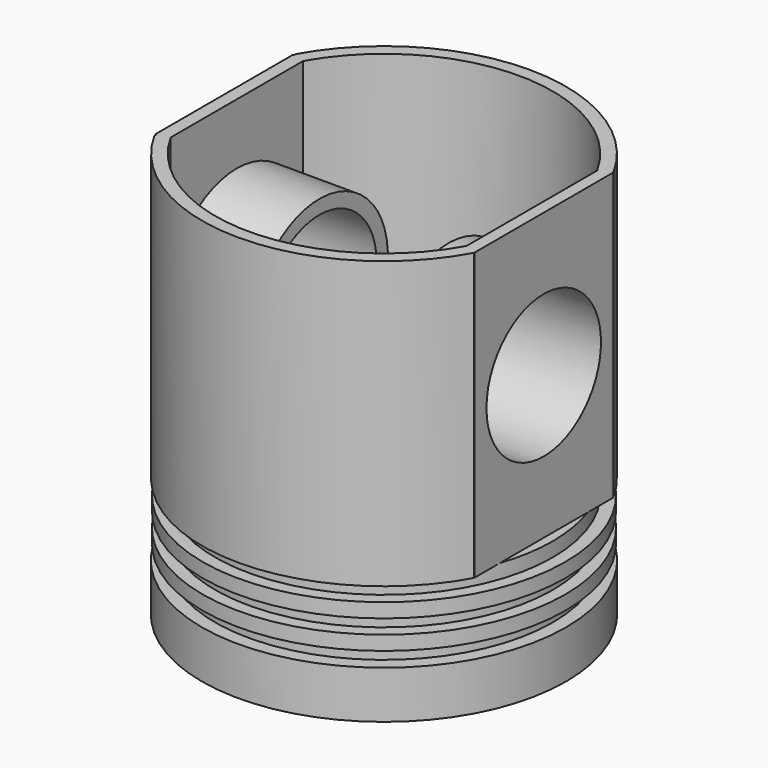
from build123d import *

# Parameters (mm, degrees)
F0_R      = 48.4220762832
F1_DEPTH  = 76.2
F2_R      = 44.958
F3_DEPTH  = 71.12
F4_R      = 44.958
F5_DEPTH  = 3.81
F6_R      = 48.26
F7_DEPTH  = 3.81
F8_R      = 44.958
F9_DEPTH  = 3.81
F10_R     = 48.26
F11_DEPTH = 3.81
F12_R     = 44.958
F13_DEPTH = 3.81
F14_R     = 48.4881238819
F15_DEPTH = 12.7
F16_R     = 44.958
F16_R_2   = 39.5280108498
F17_DEPTH = 17.78
F18_W     = 24.8659998178
F18_H     = 81.0338929296
F19_DEPTH = 76.201
F20_W     = 28.6690369248
F20_H     = 83.0816850066
F21_DEPTH = 76.201
F22_W     = 3.4077020206
F22_H     = 45.72
F23_DEPTH = 76.2
F24_W     = 3.1630169219
F24_H     = 45.72
F25_DEPTH = 76.2
F26_R     = 22.7868641695
F27_DEPTH = 25.4
F28_R     = 19.05
F29_DEPTH = 25.4
F31_DEPTH = 25.4
F32_R     = 19.05
F33_DEPTH = 25.4


with BuildPart() as f1:
    # F0 (on Top) → F1 (new body)
    with BuildSketch(Plane.XY):
        Circle(F0_R)
    extrude(amount=F1_DEPTH)

    # F2 (on face) → F3 (cut)
    with BuildSketch(Plane.XY.offset(76.2)):
        Circle(F2_R)
    extrude(amount=-F3_DEPTH, mode=Mode.SUBTRACT)

    # F4 (on Top) → F5 (join)
    with BuildSketch(Plane.XY):
        Circle(F4_R)
    extrude(amount=-F5_DEPTH)

    # F6 (on face) → F7 (join)
    with BuildSketch(Plane(origin=(0, 0, -3.81), x_dir=(1, 0, 0), z_dir=(0, 0, -1))):
        Circle(F6_R)
    extrude(amount=F7_DEPTH)

    # F8 (on face) → F9 (join)
    with BuildSketch(Plane(origin=(0, 0, -7.62), x_dir=(1, 0, 0), z_dir=(0, 0, -1))):
        Circle(F8_R)
    extrude(amount=F9_DEPTH)

    # F10 (on face) → F11 (join)
    with BuildSketch(Plane(origin=(0, 0, -11.43), x_dir=(1, 0, 0), z_dir=(0, 0, -1))):
        Circle(F10_R)
    extrude(amount=F11_DEPTH)

    # F12 (on face) → F13 (join)
    with BuildSketch(Plane(origin=(0, 0, -15.24), x_dir=(1, 0, 0), z_dir=(0, 0, -1))):
        Circle(F12_R)
    extrude(amount=F13_DEPTH)

    # F14 (on face) → F15 (join)
    with BuildSketch(Plane(origin=(0, 0, -19.05), x_dir=(1, 0, 0), z_dir=(0, 0, -1))):
        Circle(F14_R)
    extrude(amount=F15_DEPTH)

    # F16 (on face) → F17 (join)
    with BuildSketch(Plane.XY.offset(5.08)):
        Circle(F16_R)
        Circle(F16_R_2, mode=Mode.SUBTRACT)
    extrude(amount=F17_DEPTH)

    # F18 (on Top) → F19 (cut, through all)
    with BuildSketch(Plane.XY):
        with Locations((-54.7783300281, -4.0224418044)):
            Rectangle(F18_W, F18_H)
    extrude(amount=F19_DEPTH, mode=Mode.SUBTRACT)

    # F20 (on Top) → F21 (cut, through all)
    with BuildSketch(Plane.XY):
        with Locations((56.8261183798, -3.8761682808)):
            Rectangle(F20_W, F20_H)
    extrude(amount=F21_DEPTH, mode=Mode.SUBTRACT)

    # F22 (on Top) → F23 (join)
    with BuildSketch(Plane.XY):
        with Locations((-40.8826228231, 0.0731358305)):
            Rectangle(F22_W, F22_H)
    extrude(amount=F23_DEPTH)

    # F24 (on Top) → F25 (join)
    with BuildSketch(Plane.XY):
        with Locations((40.9449934959, -0.2194056287)):
            Rectangle(F24_W, F24_H)
    extrude(amount=F25_DEPTH)

    # F26 (on face) → F27 (join)
    with BuildSketch(Plane(origin=(-42.5864738334, 0, 0), x_dir=(0, -1, 0), z_dir=(-1, 0, 0))):
        with Locations((0, 37.2258611023)):
            Circle(F26_R)
    extrude(amount=-F27_DEPTH)

    # F28 (on face) → F29 (cut)
    with BuildSketch(Plane.YZ.offset(-17.1864738334)):
        with Locations((0, 37.2258611023)):
            Circle(F28_R)
    extrude(amount=-F29_DEPTH, mode=Mode.SUBTRACT)

    # F30 (on face) → F31 (join)
    with BuildSketch(Plane.YZ.offset(42.5265019569)):
        with BuildLine():
            Line((22.6405943713, 36.7378248993), (22.6405943713, 39.4621751007))
            ThreePointArc((22.6405943713, 39.4621751007), (-22.6815350999, 38.1), (22.6405943713, 36.7378248993))
        make_face()
        with BuildLine():
            ThreePointArc((22.6405943713, 36.7378248993), (22.6712976074, 37.4186048965), (22.6815350999, 38.1))
            ThreePointArc((22.6815350999, 38.1), (22.6712976074, 38.7813951035), (22.6405943713, 39.4621751007))
            Line((22.6405943713, 39.4621751007), (22.6405943713, 36.7378248993))
        make_face()
    extrude(amount=-F31_DEPTH)

    # F32 (on face) → F33 (cut)
    with BuildSketch(Plane(origin=(17.1265019569, 0, 0), x_dir=(0, -1, 0), z_dir=(-1, 0, 0))):
        with Locations((0, 38.1)):
            Circle(F32_R)
    extrude(amount=-F33_DEPTH, mode=Mode.SUBTRACT)


solid = f1.part
